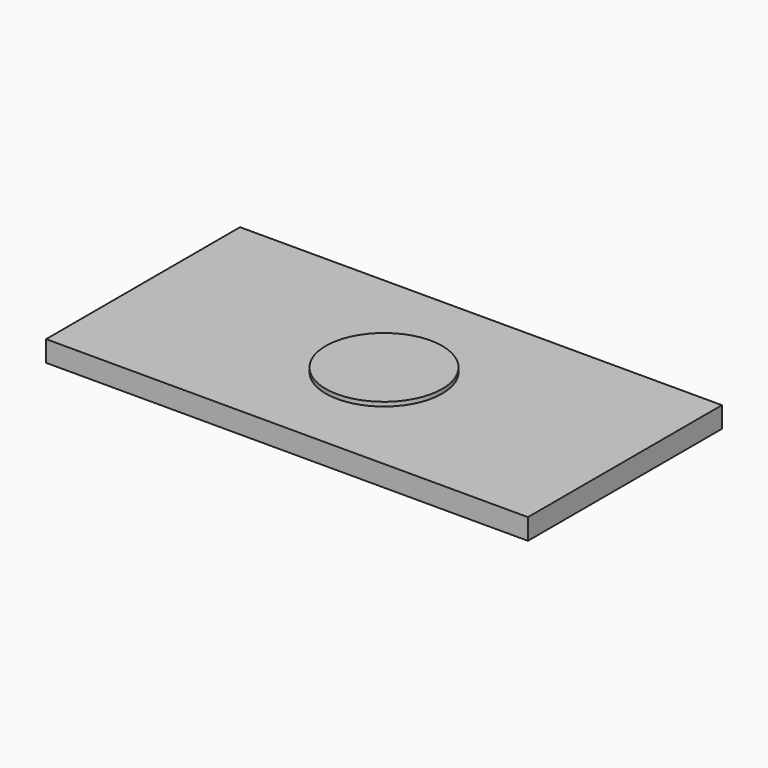
from build123d import *

# Parameters (mm, degrees)
F0_W     = 58.630432
F0_H     = 29.501938
F1_DEPTH = 2.54
F2_R     = 7.085568
F3_DEPTH = 3.048


with BuildPart() as f1:
    # F0 (on Top) → F1 (new body)
    with BuildSketch(Plane.XY):
        Rectangle(F0_W, F0_H)
    extrude(amount=F1_DEPTH)

    # F2 (on Top) → F3 (join)
    with BuildSketch(Plane.XY):
        Circle(F2_R)
    extrude(amount=F3_DEPTH)


solid = f1.part
